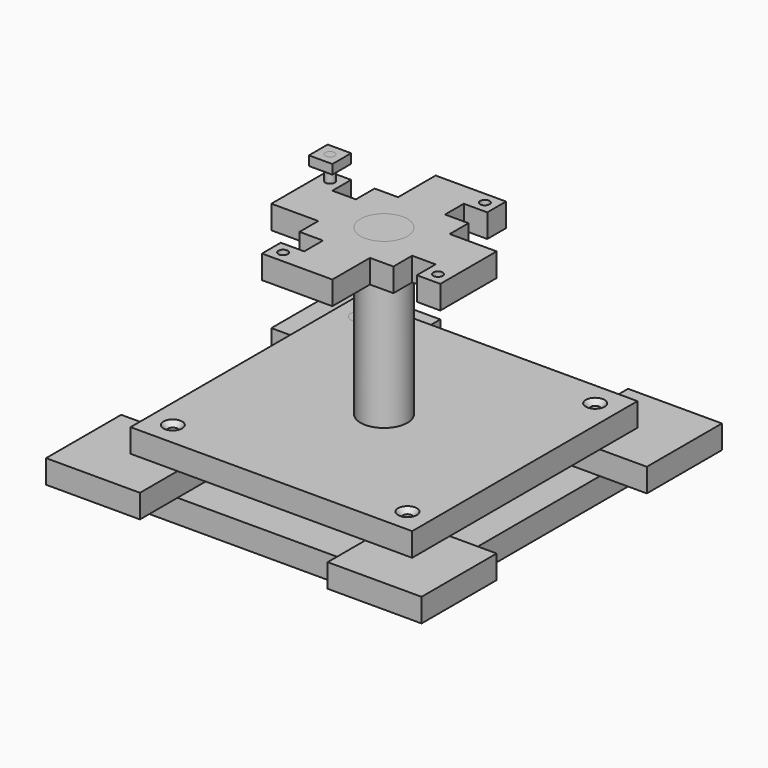
from build123d import *

# Parameters (mm, degrees)
F0_W             = 60
F0_H             = 60
F1_DEPTH         = 5
F2_W             = 20
F2_H             = 20
F3_DEPTH         = 5
F4_W             = 60
F4_H             = 60
F5_DEPTH         = 5
F9_D             = 2
F9_DEPTH         = 14
F9_CSINK_D       = 4
F9_CSINK_ANGLE   = 90
F9_TIP           = 0.600860619
F9_2_D           = 2
F9_2_DEPTH       = 14
F9_2_CSINK_D     = 4
F9_2_CSINK_ANGLE = 90
F9_2_TIP         = 0.600860619
F9_3_D           = 2
F9_3_DEPTH       = 14
F9_3_CSINK_D     = 4
F9_3_CSINK_ANGLE = 90
F9_3_TIP         = 0.600860619
F9_4_D           = 2
F9_4_DEPTH       = 14
F9_4_CSINK_D     = 4
F9_4_CSINK_ANGLE = 90
F9_4_TIP         = 0.600860619
F9_5_D           = 2
F9_5_DEPTH       = 14
F9_5_CSINK_D     = 4
F9_5_CSINK_ANGLE = 90
F9_5_TIP         = 0.600860619
F9_6_D           = 2
F9_6_DEPTH       = 14
F9_6_CSINK_D     = 4
F9_6_CSINK_ANGLE = 90
F9_6_TIP         = 0.600860619
F10_R            = 2
F11_DEPTH        = 15
F13_R            = 5
F14_DEPTH        = 50
F16_DEPTH        = 5
F18_R            = 1
F19_DEPTH        = 5
F20_W            = 5
F20_H            = 5
F21_DEPTH        = 2
F23_R            = 1
F24_DEPTH        = 10


with BuildPart() as f1:
    # F0 (on Top) → F1 (new body)
    with BuildSketch(Plane.XY):
        Rectangle(F0_W, F0_H)
    extrude(amount=F1_DEPTH)

    # F9
    with Locations(Plane.XY.offset(15)):
        with Locations((-25, 25), (25, 25), (-25, -25), (25, -25)):
            CounterSinkHole(F9_D / 2, F9_CSINK_D / 2, depth=F9_DEPTH, counter_sink_angle=F9_CSINK_ANGLE)
            with Locations((0, 0, -(F9_DEPTH + F9_TIP / 2))):  # 118° drill point
                Cone(0, F9_D / 2, F9_TIP, mode=Mode.SUBTRACT)


with BuildPart() as f3:
    # F2 (on face) → F3 (new body)
    with BuildSketch(Plane.XY.offset(5)):
        with Locations((-30, 30)):
            Rectangle(F2_W, F2_H)
    extrude(amount=F3_DEPTH)


with BuildPart() as f5:
    # F4 (on face) → F5 (new body)
    with BuildSketch(Plane.XY.offset(10)):
        Rectangle(F4_W, F4_H)
    extrude(amount=F5_DEPTH)

    # F9#3
    with Locations(Plane.XY.offset(15)):
        with Locations((-25, 25), (25, 25), (-25, -25), (25, -25)):
            CounterSinkHole(F9_3_D / 2, F9_3_CSINK_D / 2, depth=F9_3_DEPTH, counter_sink_angle=F9_3_CSINK_ANGLE)
            with Locations((0, 0, -(F9_3_DEPTH + F9_3_TIP / 2))):  # 118° drill point
                Cone(0, F9_3_D / 2, F9_3_TIP, mode=Mode.SUBTRACT)


with BuildPart() as f6_1:
    # F6: instance of F3
    add(f3.part.mirror(Plane.YZ))


with BuildPart() as f7_1:
    # F7: instance of F3
    add(f3.part.mirror(Plane.XZ))

    # F9#5
    with Locations(Plane.XY.offset(15)):
        with Locations((-25, 25), (25, 25), (-25, -25), (25, -25)):
            CounterSinkHole(F9_5_D / 2, F9_5_CSINK_D / 2, depth=F9_5_DEPTH, counter_sink_angle=F9_5_CSINK_ANGLE)
            with Locations((0, 0, -(F9_5_DEPTH + F9_5_TIP / 2))):  # 118° drill point
                Cone(0, F9_5_D / 2, F9_5_TIP, mode=Mode.SUBTRACT)


with BuildPart() as f7_2:
    # F7: instance of F6_1
    add(f6_1.part.mirror(Plane.XZ))

    # F9#6
    with Locations(Plane.XY.offset(15)):
        with Locations((-25, 25), (25, 25), (-25, -25), (25, -25)):
            CounterSinkHole(F9_6_D / 2, F9_6_CSINK_D / 2, depth=F9_6_DEPTH, counter_sink_angle=F9_6_CSINK_ANGLE)
            with Locations((0, 0, -(F9_6_DEPTH + F9_6_TIP / 2))):  # 118° drill point
                Cone(0, F9_6_D / 2, F9_6_TIP, mode=Mode.SUBTRACT)


with BuildPart() as f3_1:
    add(f3.part)

    # F9#2
    with Locations(Plane.XY.offset(15)):
        with Locations((-25, 25), (25, 25), (-25, -25), (25, -25)):
            CounterSinkHole(F9_2_D / 2, F9_2_CSINK_D / 2, depth=F9_2_DEPTH, counter_sink_angle=F9_2_CSINK_ANGLE)
            with Locations((0, 0, -(F9_2_DEPTH + F9_2_TIP / 2))):  # 118° drill point
                Cone(0, F9_2_D / 2, F9_2_TIP, mode=Mode.SUBTRACT)


with BuildPart() as f6_1_1:
    add(f6_1.part)

    # F9#4
    with Locations(Plane.XY.offset(15)):
        with Locations((-25, 25), (25, 25), (-25, -25), (25, -25)):
            CounterSinkHole(F9_4_D / 2, F9_4_CSINK_D / 2, depth=F9_4_DEPTH, counter_sink_angle=F9_4_CSINK_ANGLE)
            with Locations((0, 0, -(F9_4_DEPTH + F9_4_TIP / 2))):  # 118° drill point
                Cone(0, F9_4_D / 2, F9_4_TIP, mode=Mode.SUBTRACT)


with BuildPart() as f11:
    # F10 (on face) → F11 (new body, through all)
    with BuildSketch(Plane.XY.offset(15)):
        with Locations((-25, 25)):
            Circle(F10_R)
    extrude(amount=-F11_DEPTH)

    # F12: cut F5, F3, F1
    add(f5.part, mode=Mode.SUBTRACT)
    add(f3_1.part, mode=Mode.SUBTRACT)
    add(f1.part, mode=Mode.SUBTRACT)


with BuildPart() as f14:
    # F13 (on Top) → F14 (new body)
    with BuildSketch(Plane.XY):
        Circle(F13_R)
    extrude(amount=F14_DEPTH)


with BuildPart() as f16:
    # F15 (on face) → F16 (new body)
    with BuildSketch(Plane.XY.offset(50)):
        Polygon((-5, 20), (-5, 10), (-10, 10), (-10, 5), (-15, 5), (-15, 10), (-20, 10), (-20, -5), (-10, -5), (-10, -10), (-5, -10), (-5, -15), (-10, -15), (-10, -20), (5, -20), (5, -10), (10, -10), (10, -5), (15, -5), (15, -10), (20, -10), (20, 5), (10, 5), (10, 10), (5, 10), (5, 15), (10, 15), (10, 20), align=None)
    extrude(amount=-F16_DEPTH)

    # F17: cut F14
    add(f14.part, mode=Mode.SUBTRACT)


with BuildPart() as f5_1:
    add(f5.part)

    # F17: cut F14
    add(f14.part, mode=Mode.SUBTRACT)


with BuildPart() as f1_1:
    add(f1.part)

    # F17: cut F14
    add(f14.part, mode=Mode.SUBTRACT)


with BuildPart() as f19:
    # F18 (on face) → F19 (new body, symmetric)
    with BuildSketch(Plane.XY.offset(50)):
        with Locations((-17.5, 7.5)):
            Circle(F18_R)
    extrude(amount=F19_DEPTH, both=True)


with BuildPart() as f21:
    # F20 (on face) → F21 (new body)
    with BuildSketch(Plane.XY.offset(55)):
        with Locations((-17.5, 7.5)):
            Rectangle(F20_W, F20_H)
    extrude(amount=-F21_DEPTH)

    # F22: cut F19
    add(f19.part, mode=Mode.SUBTRACT)


with BuildPart() as f16_1:
    add(f16.part)

    # F22: cut F19
    add(f19.part, mode=Mode.SUBTRACT)

    # F23 (on face) → F24 (cut)
    with BuildSketch(Plane.XY.offset(50)):
        with Locations((-7.5, -17.5)):
            Circle(F23_R)
        with Locations((17.5, -7.5)):
            Circle(F23_R)
        with Locations((7.5, 17.5)):
            Circle(F23_R)
    extrude(amount=-F24_DEPTH, mode=Mode.SUBTRACT)


solid = Compound([f7_1.part, f7_2.part, f3_1.part, f6_1_1.part, f11.part, f14.part, f5_1.part, f1_1.part, f19.part, f21.part, f16_1.part])
